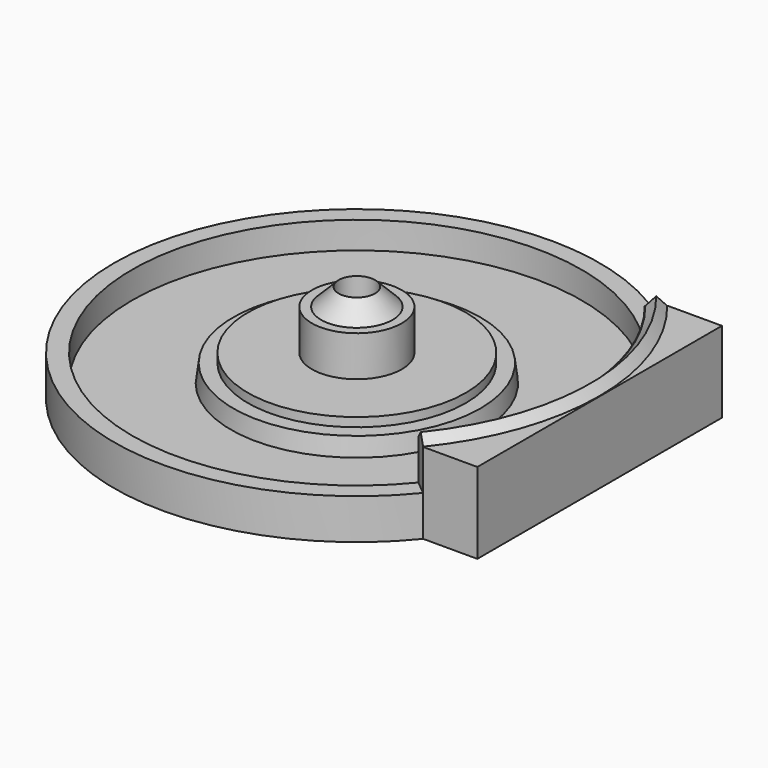
from build123d import *

# Parameters (mm, degrees)
SKETCH009_R     = 70.710678
POCKET004_DEPTH = 9
SKETCH010_R     = 4.5
POCKET005_DEPTH = 3
CHAMFER003_SIZE = 2
SKETCH013_W     = 3
SKETCH013_H     = 9
GROOVE002_ANGLE = 281.954395


with BuildPart() as part:
    # Sketch008 → Revolution002 (revolve)
    with BuildSketch(Plane.XZ):
        Polygon((70.710678, 0), (26.95, 0), (26, 0.95), (25.05, 0), (25, 0), (25, -7.5), (14, -7.5), (13.740136, -5.5), (12.116995, -5.5), (12.116995, -4.5), (5, -4.5), (5, 0), (3.975, 0), (2.025, 1.95), (2.025, -9), (70.710678, -9), align=None)
    revolve(axis=Axis((0, 0, 0), (0, 0, 1)))

    # Sketch012 → Revolution004 (revolve)
    with BuildSketch(Plane.XZ):
        Polygon((31.6, 1.95), (33.6, 1.95), (35.55, 0), (31.6, 0), align=None)
    revolve(axis=Axis((31.6, 0, 13.931554), (0, 0, -1)))

    # Sketch011 → Revolution003 (revolve)
    with BuildSketch(Plane.XZ):
        Polygon((42, 0), (42, 1.95), (44, 1.95), (45.95, 0), align=None)
    revolve(axis=Axis((42, 0, 13.737844), (0, 0, -1)))

    # Sketch009 → Pocket004 (cut, symmetric)
    with BuildSketch(Plane.XY):
        Circle(SKETCH009_R)
        with BuildLine():
            Line((20.976177, 17), (27, 17))
            Line((27, 17), (27, -17))
            Line((27, -17), (20.976177, -17))
            ThreePointArc((20.976177, 17), (-27, 0), (20.976177, -17))
        make_face(mode=Mode.SUBTRACT)
    extrude(amount=POCKET004_DEPTH, both=True, mode=Mode.SUBTRACT)

    # Sketch010 → Pocket005 (cut)
    with BuildSketch(Plane.XY.offset(-9)):
        Circle(SKETCH010_R)
    extrude(amount=POCKET005_DEPTH, mode=Mode.SUBTRACT)

    # Chamfer003
    chamfer003_edges = [part.edges().sort_by_distance(p)[0] for p in [
        (-2.025, 0, -6),
    ]]
    chamfer(chamfer003_edges, length=CHAMFER003_SIZE)

    # Sketch013 → Groove002 (revolve, symmetric, cut)
    with BuildSketch(Plane.XZ) as groove002_sk:
        with Locations((-25.5, 0)):
            Rectangle(SKETCH013_W, SKETCH013_H)
    revolve(axis=Axis((0, 0, 0), (0, 0, 1)), revolution_arc=GROOVE002_ANGLE / 2, mode=Mode.SUBTRACT)
    revolve(groove002_sk.sketch, axis=Axis((0, 0, 0), (0, 0, -1)), revolution_arc=GROOVE002_ANGLE / 2, mode=Mode.SUBTRACT)

    # Sketch017 → Groove004 (revolve, cut)
    with BuildSketch(Plane.XZ):
        Polygon((42, -7), (44, -7), (46, -9), (42, -9), align=None)
    revolve(axis=Axis((42, 0, 18.984909), (0, 0, -1)), mode=Mode.SUBTRACT)

    # Sketch018 → Groove005 (revolve, cut)
    with BuildSketch(Plane.XZ):
        Polygon((31.6, -7), (33.6, -7), (35.6, -9), (31.6, -9), align=None)
    revolve(axis=Axis((31.6, 0, 19.891285), (0, 0, -1)), mode=Mode.SUBTRACT)


solid = part.part
